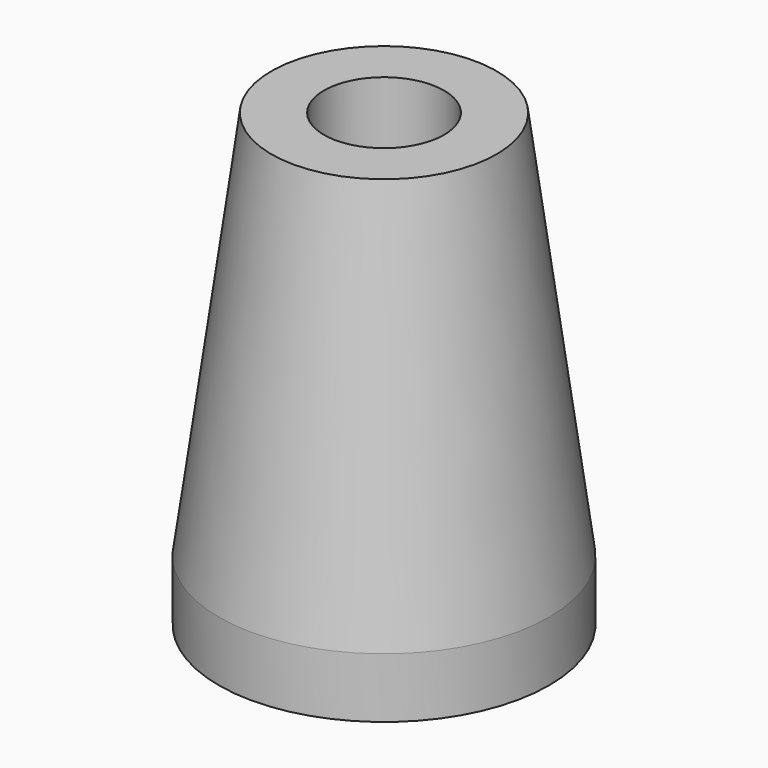
from build123d import *

# Parameters (mm, degrees)
F2_R     = 4
F3_DEPTH = 30


with BuildPart() as f1:
    # F0 (on Right) → F1 (revolve)
    with BuildSketch(Plane.YZ):
        Polygon((-11, 0), (0, 0), (0, 30), (-7.5, 30), (-11, 4), align=None)
    revolve(axis=Axis((0, 0, 15), (0, 0, 1)))

    # F2 (on face) → F3 (cut)
    with BuildSketch(Plane.XY.offset(30)):
        Circle(F2_R)
    extrude(amount=-F3_DEPTH, mode=Mode.SUBTRACT)


solid = f1.part
